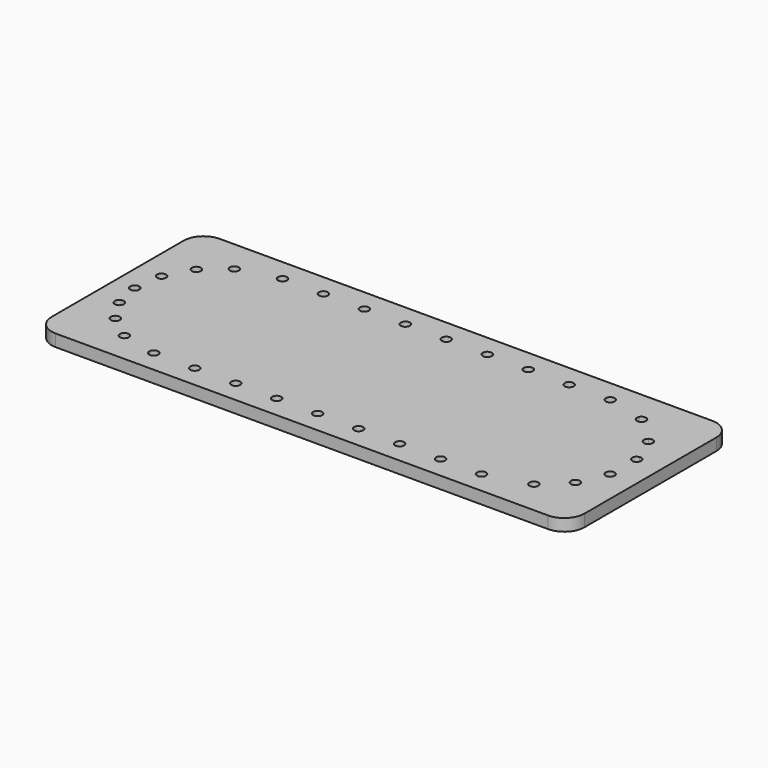
from build123d import *

# Parameters (mm, degrees)
F1_DEPTH = 12


with BuildPart() as f1:
    # F0 (on Top) → F1 (new body)
    with BuildSketch(Plane.XY):
        with BuildLine():
            ThreePointArc((269.7111814663, 84.576462953), (263.85331709, 98.7185985767), (249.7111814663, 104.576462953))
            Line((249.7111814663, 104.576462953), (-240.2888185337, 104.576462953))
            ThreePointArc((-240.2888185337, 104.576462953), (-254.4309541574, 98.7185985767), (-260.2888185337, 84.576462953))
            Line((-260.2888185337, 84.576462953), (-260.2888185337, -79.423537047))
            ThreePointArc((-260.2888185337, -79.423537047), (-254.4309541574, -93.5656726707), (-240.2888185337, -99.423537047))
            Line((-240.2888185337, -99.423537047), (249.7111814663, -99.423537047))
            ThreePointArc((249.7111814663, -99.423537047), (263.85331709, -93.5656726707), (269.7111814663, -79.423537047))
            Line((269.7111814663, -79.423537047), (269.7111814663, 84.576462953))
        make_face()
        with BuildLine():
            ThreePointArc((204.2592047464, -67.5238216484), (187.7820534829, -74.3187684234), (170.209401329, -77.296974547))
            ThreePointArc((170.209401329, -77.296974547), (170.21073641, -77.3602495378), (170.2111814663, -77.423537047))
            ThreePointArc((170.2111814663, -77.423537047), (165.7111814663, -81.923537047), (161.2111814663, -77.423537047))
            Line((161.2111814663, -77.423537047), (129.4611814663, -77.423537047))
            ThreePointArc((129.4611814663, -77.423537047), (124.9611814663, -81.923537047), (120.4611814663, -77.423537047))
            Line((120.4611814663, -77.423537047), (88.7111814663, -77.423537047))
            ThreePointArc((88.7111814663, -77.423537047), (84.2111814663, -81.923537047), (79.7111814663, -77.423537047))
            Line((79.7111814663, -77.423537047), (47.9611814663, -77.423537047))
            ThreePointArc((47.9611814663, -77.423537047), (43.4611814663, -81.923537047), (38.9611814663, -77.423537047))
            Line((38.9611814663, -77.423537047), (7.2111814663, -77.423537047))
            ThreePointArc((7.2111814663, -77.423537047), (2.7111814663, -81.923537047), (-1.7888185337, -77.423537047))
            Line((-1.7888185337, -77.423537047), (-33.5388185337, -77.423537047))
            ThreePointArc((-33.5388185337, -77.423537047), (-38.0388185337, -81.923537047), (-42.5388185337, -77.423537047))
            Line((-42.5388185337, -77.423537047), (-74.2888185337, -77.423537047))
            ThreePointArc((-74.2888185337, -77.423537047), (-78.7888185337, -81.923537047), (-83.2888185337, -77.423537047))
            Line((-83.2888185337, -77.423537047), (-115.0388185337, -77.423537047))
            ThreePointArc((-115.0388185337, -77.423537047), (-119.5388185337, -81.923537047), (-124.0388185337, -77.423537047))
            Line((-124.0388185337, -77.423537047), (-155.7888185337, -77.423537047))
            ThreePointArc((-155.7888185337, -77.423537047), (-160.3521060429, -81.9230919907), (-164.7870383965, -77.296974547))
            ThreePointArc((-164.7870383965, -77.296974547), (-178.856757772, -75.2389059174), (-192.3398676419, -70.7224473463))
            ThreePointArc((-192.3398676419, -70.7224473463), (-198.4424444599, -72.8194973412), (-200.3670299181, -66.6603550865))
            ThreePointArc((-200.3670299181, -66.6603550865), (-209.0631972198, -60.8353654687), (-216.9244551496, -53.9249057482))
            ThreePointArc((-216.9244551496, -53.9249057482), (-223.3712182775, -53.6450706668), (-222.910178682, -47.2087281501))
            ThreePointArc((-222.910178682, -47.2087281501), (-228.0844244719, -39.8941835628), (-232.4083080485, -32.0469284483))
            ThreePointArc((-232.4083080485, -32.0469284483), (-238.4008187619, -29.6534210114), (-235.8397187993, -23.7305982484))
            ThreePointArc((-235.8397187993, -23.7305982484), (-238.3689912687, -14.8444045821), (-239.8568492175, -5.7258555844))
            ThreePointArc((-239.8568492175, -5.7258555844), (-244.6926704724, -1.4533978268), (-240.2858953667, 3.2603475702))
            ThreePointArc((-240.2858953667, 3.2603475702), (-239.5790448432, 13.209431108), (-237.6396785358, 22.9932319661))
            ThreePointArc((-237.6396785358, 22.9932319661), (-240.6488462104, 28.7014692077), (-234.858234227, 31.548902325))
            ThreePointArc((-234.858234227, 31.548902325), (-230.54791978, 40.8342555195), (-225.0871499348, 49.4931577176))
            ThreePointArc((-225.0871499348, 49.4931577176), (-225.8373680011, 55.9022321713), (-219.4097290048, 56.4718982428))
            ThreePointArc((-219.4097290048, 56.4718982428), (-211.9578539541, 63.65273313), (-203.641371616, 69.8115441327))
            ThreePointArc((-203.641371616, 69.8115441327), (-202.0143806576, 76.0558986167), (-195.8182554739, 74.2539288033))
            ThreePointArc((-195.8182554739, 74.2539288033), (-180.7178864298, 79.9240756175), (-164.7870383965, 82.449900453))
            ThreePointArc((-164.7870383965, 82.449900453), (-160.3521060429, 87.0760178967), (-155.7888185337, 82.576462953))
            Line((-155.7888185337, 82.576462953), (-124.0388185337, 82.576462953))
            ThreePointArc((-124.0388185337, 82.576462953), (-119.5388185337, 87.076462953), (-115.0388185337, 82.576462953))
            Line((-115.0388185337, 82.576462953), (-83.2888185337, 82.576462953))
            ThreePointArc((-83.2888185337, 82.576462953), (-78.7888185337, 87.076462953), (-74.2888185337, 82.576462953))
            Line((-74.2888185337, 82.576462953), (-42.5388185337, 82.576462953))
            ThreePointArc((-42.5388185337, 82.576462953), (-38.0388185337, 87.076462953), (-33.5388185337, 82.576462953))
            Line((-33.5388185337, 82.576462953), (-1.7888185337, 82.576462953))
            ThreePointArc((-1.7888185337, 82.576462953), (2.7111814663, 87.076462953), (7.2111814663, 82.576462953))
            Line((7.2111814663, 82.576462953), (38.9611814663, 82.576462953))
            ThreePointArc((38.9611814663, 82.576462953), (43.4611814663, 87.076462953), (47.9611814663, 82.576462953))
            Line((47.9611814663, 82.576462953), (79.7111814663, 82.576462953))
            ThreePointArc((79.7111814663, 82.576462953), (84.2111814663, 87.076462953), (88.7111814663, 82.576462953))
            Line((88.7111814663, 82.576462953), (120.4611814663, 82.576462953))
            ThreePointArc((120.4611814663, 82.576462953), (124.9611814663, 87.076462953), (129.4611814663, 82.576462953))
            Line((129.4611814663, 82.576462953), (161.2111814663, 82.576462953))
            ThreePointArc((161.2111814663, 82.576462953), (165.7111814663, 87.076462953), (170.2111814663, 82.576462953))
            ThreePointArc((170.2111814663, 82.576462953), (170.21073641, 82.5131754438), (170.209401329, 82.449900453))
            ThreePointArc((170.209401329, 82.449900453), (186.1402493624, 79.9240756175), (201.2406184065, 74.2539288033))
            ThreePointArc((201.2406184065, 74.2539288033), (206.3025044306, 76.5093267975), (209.7146722344, 72.1427925754))
            ThreePointArc((209.7146722344, 72.1427925754), (209.548883836, 70.9325819355), (209.0637345486, 69.8115441327))
            ThreePointArc((209.0637345486, 69.8115441327), (220.4470767175, 60.920115316), (230.0460459315, 50.1267017983))
            ThreePointArc((230.0460459315, 50.1267017983), (234.700769568, 50.4230174915), (237.1179090261, 46.4340712694))
            ThreePointArc((237.1179090261, 46.4340712694), (236.546696824, 44.2398455656), (234.978075053, 42.6026725268))
            ThreePointArc((234.978075053, 42.6026725268), (239.9348088399, 32.4236259589), (243.4049570386, 21.6467864249))
            ThreePointArc((243.4049570386, 21.6467864249), (247.1807927716, 20.7496525315), (248.8543244056, 17.2480705211))
            ThreePointArc((248.8543244056, 17.2480705211), (247.7750268162, 14.3242382724), (245.0548599531, 12.8029327339))
            ThreePointArc((245.0548599531, 12.8029327339), (245.6969371267, 1.0668631961), (244.6124768813, -10.6366207839))
            ThreePointArc((244.6124768813, -10.6366207839), (247.2199766655, -12.1933964467), (248.2447106198, -15.0521594505))
            ThreePointArc((248.2447106198, -15.0521594505), (246.5046008793, -18.6064534388), (242.6300413951, -19.4119200539))
            ThreePointArc((242.6300413951, -19.4119200539), (238.9693043271, -29.5677034681), (233.9745719527, -39.1381570176))
            ThreePointArc((233.9745719527, -39.1381570176), (235.476485449, -40.7646282491), (236.0210579843, -42.9104599226))
            ThreePointArc((236.0210579843, -42.9104599226), (233.5547943992, -46.9246741912), (228.8593174534, -46.5388393606))
            ThreePointArc((228.8593174534, -46.5388393606), (220.9706242506, -55.2715619326), (211.8861518996, -62.7524900883))
            ThreePointArc((211.8861518996, -62.7524900883), (212.4472705758, -63.9432571457), (212.6398017261, -65.2454522577))
            ThreePointArc((212.6398017261, -65.2454522577), (209.3203341465, -69.5878413702), (204.2592047464, -67.5238216484))
        make_face(mode=Mode.SUBTRACT)
        with BuildLine():
            ThreePointArc((161.2111814663, -77.423537047), (165.6478939571, -72.9239821033), (170.209401329, -77.296974547))
            ThreePointArc((170.209401329, -77.296974547), (187.7820534829, -74.3187684234), (204.2592047464, -67.5238216484))
            ThreePointArc((204.2592047464, -67.5238216484), (205.7531918365, -61.4304695271), (211.8861518996, -62.7524900883))
            ThreePointArc((211.8861518996, -62.7524900883), (220.9706242506, -55.2715619326), (228.8593174534, -46.5388393606))
            ThreePointArc((228.8593174534, -46.5388393606), (227.8192524301, -40.3518205108), (233.9745719527, -39.1381570176))
            ThreePointArc((233.9745719527, -39.1381570176), (238.9693043271, -29.5677034681), (242.6300413951, -19.4119200539))
            ThreePointArc((242.6300413951, -19.4119200539), (239.3553246049, -14.0605494403), (244.6124768813, -10.6366207839))
            ThreePointArc((244.6124768813, -10.6366207839), (245.6969371267, 1.0668631961), (245.0548599531, 12.8029327339))
            ThreePointArc((245.0548599531, 12.8029327339), (239.9306476152, 16.4227925953), (243.4049570386, 21.6467864249))
            ThreePointArc((243.4049570386, 21.6467864249), (239.9348088399, 32.4236259589), (234.978075053, 42.6026725268))
            ThreePointArc((234.978075053, 42.6026725268), (228.8544056009, 43.9670808016), (230.0460459315, 50.1267017983))
            ThreePointArc((230.0460459315, 50.1267017983), (220.4470767175, 60.920115316), (209.0637345486, 69.8115441327))
            ThreePointArc((209.0637345486, 69.8115441327), (202.9926008787, 68.2296865342), (201.2406184065, 74.2539288033))
            ThreePointArc((201.2406184065, 74.2539288033), (186.1402493624, 79.9240756175), (170.209401329, 82.449900453))
            ThreePointArc((170.209401329, 82.449900453), (165.6478939571, 78.0769080093), (161.2111814663, 82.576462953))
            Line((161.2111814663, 82.576462953), (129.4611814663, 82.576462953))
            ThreePointArc((129.4611814663, 82.576462953), (124.9611814663, 78.076462953), (120.4611814663, 82.576462953))
            Line((120.4611814663, 82.576462953), (88.7111814663, 82.576462953))
            ThreePointArc((88.7111814663, 82.576462953), (84.2111814663, 78.076462953), (79.7111814663, 82.576462953))
            Line((79.7111814663, 82.576462953), (47.9611814663, 82.576462953))
            ThreePointArc((47.9611814663, 82.576462953), (43.4611814663, 78.076462953), (38.9611814663, 82.576462953))
            Line((38.9611814663, 82.576462953), (7.2111814663, 82.576462953))
            ThreePointArc((7.2111814663, 82.576462953), (2.7111814663, 78.076462953), (-1.7888185337, 82.576462953))
            Line((-1.7888185337, 82.576462953), (-33.5388185337, 82.576462953))
            ThreePointArc((-33.5388185337, 82.576462953), (-38.0388185337, 78.076462953), (-42.5388185337, 82.576462953))
            Line((-42.5388185337, 82.576462953), (-74.2888185337, 82.576462953))
            ThreePointArc((-74.2888185337, 82.576462953), (-78.7888185337, 78.076462953), (-83.2888185337, 82.576462953))
            Line((-83.2888185337, 82.576462953), (-115.0388185337, 82.576462953))
            ThreePointArc((-115.0388185337, 82.576462953), (-119.5388185337, 78.076462953), (-124.0388185337, 82.576462953))
            Line((-124.0388185337, 82.576462953), (-155.7888185337, 82.576462953))
            ThreePointArc((-155.7888185337, 82.576462953), (-160.2255310245, 78.0769080093), (-164.7870383965, 82.449900453))
            ThreePointArc((-164.7870383965, 82.449900453), (-180.7178864298, 79.9240756175), (-195.8182554739, 74.2539288033))
            ThreePointArc((-195.8182554739, 74.2539288033), (-195.4257750797, 73.2306247716), (-195.2923093019, 72.1427925754))
            ThreePointArc((-195.2923093019, 72.1427925754), (-198.5820986619, 67.8085809739), (-203.641371616, 69.8115441327))
            ThreePointArc((-203.641371616, 69.8115441327), (-211.9578539541, 63.65273313), (-219.4097290048, 56.4718982428))
            ThreePointArc((-219.4097290048, 56.4718982428), (-218.256018156, 54.9377655669), (-217.846616846, 53.0623983076))
            ThreePointArc((-217.846616846, 53.0623983076), (-220.3569433677, 49.0261625056), (-225.0871499348, 49.4931577176))
            ThreePointArc((-225.0871499348, 49.4931577176), (-230.54791978, 40.8342555195), (-234.858234227, 31.548902325))
            ThreePointArc((-234.858234227, 31.548902325), (-232.691691329, 29.9034689935), (-231.8693181092, 27.3101966853))
            ThreePointArc((-231.8693181092, 27.3101966853), (-233.6736384101, 23.7069605065), (-237.6396785358, 22.9932319661))
            ThreePointArc((-237.6396785358, 22.9932319661), (-239.5790448432, 13.209431108), (-240.2858953667, 3.2603475702))
            ThreePointArc((-240.2858953667, 3.2603475702), (-237.0471139216, 1.9741893395), (-235.6977907834, -1.2387898562))
            ThreePointArc((-235.6977907834, -1.2387898562), (-236.8974698107, -4.2978553143), (-239.8568492175, -5.7258555844))
            ThreePointArc((-239.8568492175, -5.7258555844), (-238.3689912687, -14.8444045821), (-235.8397187993, -23.7305982484))
            ThreePointArc((-235.8397187993, -23.7305982484), (-231.68603238, -24.2327014849), (-229.7410080988, -27.9370366582))
            ThreePointArc((-229.7410080988, -27.9370366582), (-230.4662796168, -30.3868172376), (-232.4083080485, -32.0469284483))
            ThreePointArc((-232.4083080485, -32.0469284483), (-228.0844244719, -39.8941835628), (-222.910178682, -47.2087281501))
            ThreePointArc((-222.910178682, -47.2087281501), (-218.1134725439, -46.5710305246), (-215.5118005397, -50.6510244977))
            ThreePointArc((-215.5118005397, -50.6510244977), (-215.8800300805, -52.4338517109), (-216.9244551496, -53.9249057482))
            ThreePointArc((-216.9244551496, -53.9249057482), (-209.0631972198, -60.8353654687), (-200.3670299181, -66.6603550865))
            ThreePointArc((-200.3670299181, -66.6603550865), (-195.3046920126, -64.4423352447), (-191.9105945585, -68.8043278581))
            ThreePointArc((-191.9105945585, -68.8043278581), (-192.0192239795, -69.7871118821), (-192.3398676419, -70.7224473463))
            ThreePointArc((-192.3398676419, -70.7224473463), (-178.856757772, -75.2389059174), (-164.7870383965, -77.296974547))
            ThreePointArc((-164.7870383965, -77.296974547), (-160.2255310245, -72.9239821033), (-155.7888185337, -77.423537047))
            Line((-155.7888185337, -77.423537047), (-124.0388185337, -77.423537047))
            ThreePointArc((-124.0388185337, -77.423537047), (-119.5388185337, -72.923537047), (-115.0388185337, -77.423537047))
            Line((-115.0388185337, -77.423537047), (-83.2888185337, -77.423537047))
            ThreePointArc((-83.2888185337, -77.423537047), (-78.7888185337, -72.923537047), (-74.2888185337, -77.423537047))
            Line((-74.2888185337, -77.423537047), (-42.5388185337, -77.423537047))
            ThreePointArc((-42.5388185337, -77.423537047), (-38.0388185337, -72.923537047), (-33.5388185337, -77.423537047))
            Line((-33.5388185337, -77.423537047), (-1.7888185337, -77.423537047))
            ThreePointArc((-1.7888185337, -77.423537047), (2.7111814663, -72.923537047), (7.2111814663, -77.423537047))
            Line((7.2111814663, -77.423537047), (38.9611814663, -77.423537047))
            ThreePointArc((38.9611814663, -77.423537047), (43.4611814663, -72.923537047), (47.9611814663, -77.423537047))
            Line((47.9611814663, -77.423537047), (79.7111814663, -77.423537047))
            ThreePointArc((79.7111814663, -77.423537047), (84.2111814663, -72.923537047), (88.7111814663, -77.423537047))
            Line((88.7111814663, -77.423537047), (120.4611814663, -77.423537047))
            ThreePointArc((120.4611814663, -77.423537047), (124.9611814663, -72.923537047), (129.4611814663, -77.423537047))
            Line((129.4611814663, -77.423537047), (161.2111814663, -77.423537047))
        make_face()
    extrude(amount=F1_DEPTH)


solid = f1.part
